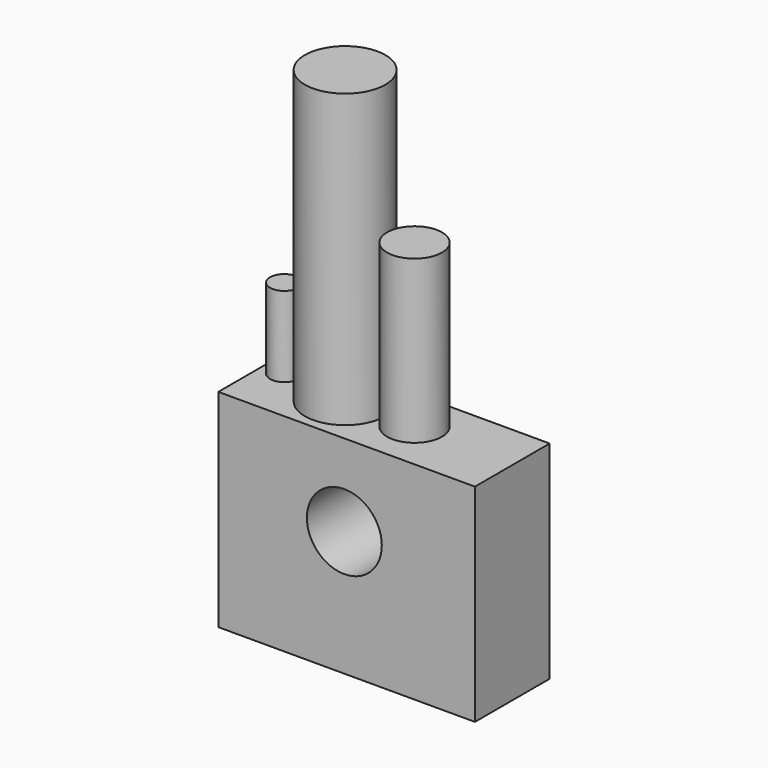
from build123d import *

# Parameters (mm, degrees)
F0_W     = 84.4102278352
F0_H     = 68.1378934532
F0_R     = 12.3215660832
F1_DEPTH = 30.734
F2_R     = 13.2353706436
F3_DEPTH = 96.012
F2_R_2   = 9.0233824653
F4_DEPTH = 53.34
F2_R_3   = 4.6999449214
F5_DEPTH = 26.416


with BuildPart() as f1:
    # F0 (on Front) → F1 (new body)
    with BuildSketch(Plane.XZ):
        with Locations((0.754147768, -7.0776222274)):
            Rectangle(F0_W, F0_H)
        Circle(F0_R, mode=Mode.SUBTRACT)
    extrude(amount=F1_DEPTH)

    # F2 (on face) → F3 (join)
    with BuildSketch(Plane.XY.offset(26.9913244992)):
        with Locations((-12.7083817497, -14.5293129608)):
            Circle(F2_R)
    extrude(amount=F3_DEPTH)

    # F2 (on face) → F4 (join)
    with BuildSketch(Plane.XY.offset(26.9913244992)):
        with Locations((9.9861975759, -14.3468007445)):
            Circle(F2_R_2)
    extrude(amount=F4_DEPTH)

    # F2 (on face) → F5 (join)
    with BuildSketch(Plane.XY.offset(26.9913244992)):
        with Locations((-34.5160663128, -12.256086804)):
            Circle(F2_R_3)
    extrude(amount=F5_DEPTH)


solid = f1.part
